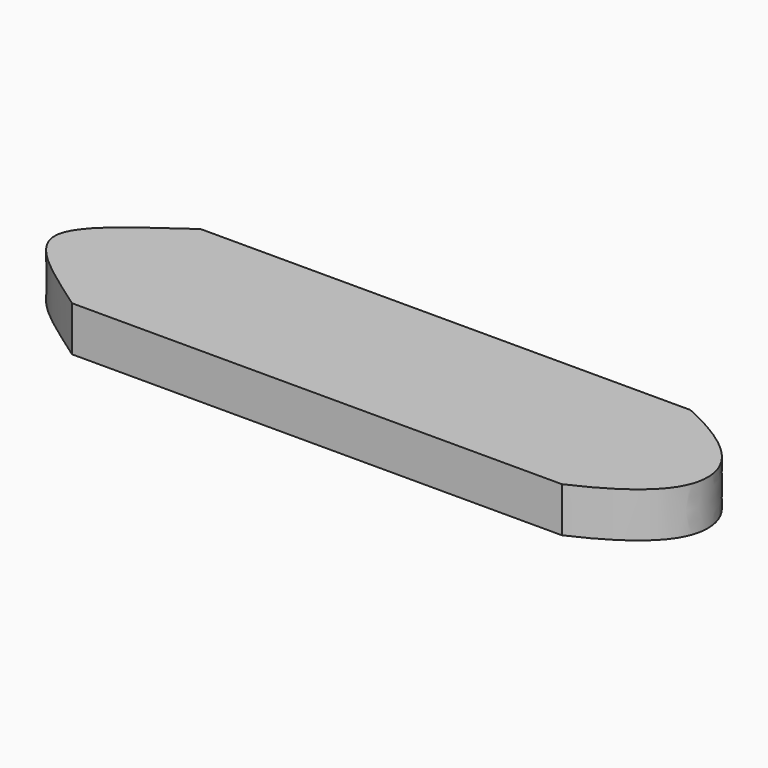
from build123d import *

# Parameters (mm, degrees)
F1_DEPTH = 7


with BuildPart() as f1:
    # F0 (on Top) → F1 (new body)
    with BuildSketch(Plane.XY):
        Polygon((38.1, 0), (38.1, 12.5), (-38.1, 12.5), (-38.1, 0), (-38.1, -12.5), (38.1, -12.5), align=None)
        with BuildLine():
            add(Edge.make_bspline(
                [(38.1, 12.5), (47.367675, 8.333333), (50.8, 4.166667), (50.8, 0)],
                knots=[0, 0, 0, 0, 17.819652, 17.819652, 17.819652, 17.819652], degree=3))
            Line((38.1, 12.5), (38.1, 0))
            Line((38.1, 0), (50.8, 0))
        make_face()
        with BuildLine():
            Line((-38.1, 0), (-38.1, 12.5))
            add(Edge.make_bspline(
                [(-38.1, 12.5), (-44.491749, 7.952809), (-50.8, 3.976404), (-50.8, 0)],
                knots=[0, 0, 0, 0, 17.819652, 17.819652, 17.819652, 17.819652], degree=3))
            Line((-50.8, 0), (-38.1, 0))
        make_face()
        with BuildLine():
            Line((50.8, 0), (38.1, 0))
            Line((38.1, 0), (38.1, -12.5))
            add(Edge.make_bspline(
                [(50.8, 0), (50.8, -4.166667), (47.367675, -8.333333), (38.1, -12.5)],
                knots=[17.819652, 17.819652, 17.819652, 17.819652, 35.639304, 35.639304, 35.639304, 35.639304], degree=3))
        make_face()
        with BuildLine():
            Line((-38.1, -12.5), (-38.1, 0))
            Line((-38.1, 0), (-50.8, 0))
            add(Edge.make_bspline(
                [(-50.8, 0), (-50.8, -3.976404), (-44.491749, -7.952809), (-38.1, -12.5)],
                knots=[17.819652, 17.819652, 17.819652, 17.819652, 35.639304, 35.639304, 35.639304, 35.639304], degree=3))
        make_face()
    extrude(amount=F1_DEPTH)


solid = f1.part
